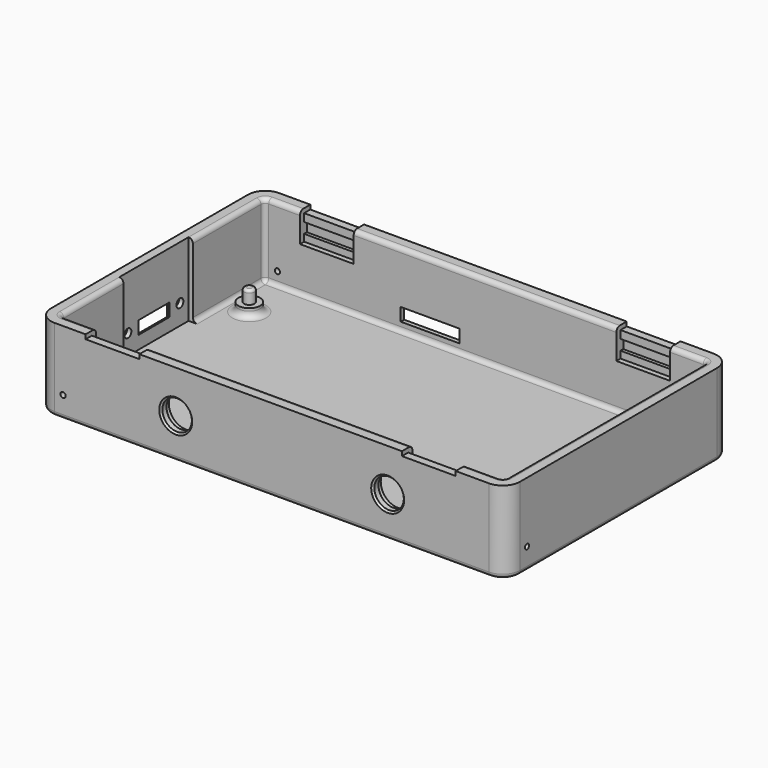
from build123d import *

# Parameters (mm, degrees)
SKETCH001_W     = 108.25
SKETCH001_H     = 64.82
PAD_DEPTH       = 19
SKETCH002_W     = 58.82
SKETCH002_H     = 102.25
POCKET_DEPTH    = 17
SKETCH003_R     = 2.5
PAD001_DEPTH    = 2
SKETCH004_R     = 1.2
PAD002_DEPTH    = 3
SKETCH005_W     = 12.4
SKETCH005_H     = 1
SKETCH005_W_2   = 13.6
SKETCH005_H_2   = 3
POCKET001_DEPTH = 3.001
SKETCH006_R     = 3.4
SKETCH006_W     = 12.4
SKETCH006_H     = 1
POCKET002_DEPTH = 3.001
SKETCH007_R     = 1
SKETCH007_W     = 9
SKETCH007_H     = 3
POCKET003_DEPTH = 3.001
SKETCH008_W     = 1.2
SKETCH008_H     = 12.4
POCKET004_DEPTH = 6.8
SKETCH009_W     = 12.4
SKETCH009_H     = 2.4
POCKET005_DEPTH = 2
SKETCH010_W     = 12.4
SKETCH010_H     = 2.4
POCKET006_DEPTH = 2
SKETCH011_R     = 4
POCKET007_DEPTH = 1.4
POCKET010_DEPTH = 1.4
POCKET011_DEPTH = 1
SKETCH028_W     = 20
SKETCH028_H     = 1
POCKET012_DEPTH = 17
FILLET001_R     = 4
FILLET002_R     = 1
FILLET003_R     = 1
CHAMFER_SIZE    = 0.6
CHAMFER001_SIZE = 0.6
CHAMFER002_SIZE = 0.4
FILLET010_R     = 1.4
FILLET013_R     = 1
FILLET014_R     = 1
FILLET016_R     = 0.6
SKETCH031_R     = 0.6
POCKET015_DEPTH = 64.821
SKETCH032_R     = 0.6
POCKET016_DEPTH = 108.251


with BuildPart() as part:
    # Sketch001 → Pad (new body)
    with BuildSketch(Plane.XY):
        with Locations((50.925, 29.21)):
            Rectangle(SKETCH001_W, SKETCH001_H)
    extrude(amount=PAD_DEPTH)

    # Sketch002 (on DatumPlane) → Pocket (cut)
    with BuildSketch(Plane(origin=(50.925, 29.21, 19), x_dir=(0, 1, 0), z_dir=(0, 0, 1))):
        Rectangle(SKETCH002_W, SKETCH002_H)
    extrude(amount=-POCKET_DEPTH, mode=Mode.SUBTRACT)

    # Sketch003 (on DatumPlane) → Pad001 (join)
    with BuildSketch(Plane.XY.offset(2)):
        with Locations((5.105, 47.625)):
            Circle(SKETCH003_R)
        with Locations((94.564, 47.625)):
            Circle(SKETCH003_R)
        with Locations((94.564, 10.795)):
            Circle(SKETCH003_R)
        with Locations((5.105, 10.795)):
            Circle(SKETCH003_R)
    extrude(amount=PAD001_DEPTH)

    # Sketch004 (on DatumPlane) → Pad002 (join)
    with BuildSketch(Plane.XY.offset(4)):
        with Locations((5.105, 47.625)):
            Circle(SKETCH004_R)
        with Locations((94.564, 47.625)):
            Circle(SKETCH004_R)
        with Locations((94.564, 10.795)):
            Circle(SKETCH004_R)
        with Locations((5.105, 10.795)):
            Circle(SKETCH004_R)
    extrude(amount=PAD002_DEPTH)

    # Sketch005 (on DatumPlane) → Pocket001 (cut, through all)
    with BuildSketch(Plane.XZ.offset(-58.62)):
        with Locations((14.2, 18.5)):
            Rectangle(SKETCH005_W, SKETCH005_H)
        with Locations((87.2, 18.5)):
            Rectangle(SKETCH005_W, SKETCH005_H)
        with Locations((38.06, 5.5)):
            Rectangle(SKETCH005_W_2, SKETCH005_H_2)
    extrude(amount=-POCKET001_DEPTH, mode=Mode.SUBTRACT)

    # Sketch006 (on DatumPlane) → Pocket002 (cut, through all)
    with BuildSketch(Plane(origin=(0, -0.2, 0), x_dir=(-1, 0, 0), z_dir=(0, 1, 0))):
        with Locations((-77.7, 9.2)):
            Circle(SKETCH006_R)
        with Locations((-28.8, 9.2)):
            Circle(SKETCH006_R)
        with Locations((-87.2, 18.5)):
            Rectangle(SKETCH006_W, SKETCH006_H)
        with Locations((-14.2, 18.5)):
            Rectangle(SKETCH006_W, SKETCH006_H)
    extrude(amount=-POCKET002_DEPTH, mode=Mode.SUBTRACT)

    # Sketch007 (on DatumPlane) → Pocket003 (cut, through all)
    with BuildSketch(Plane.YZ.offset(-0.2)):
        with Locations((20.5, 6.6)):
            Circle(SKETCH007_R)
        with Locations((35.5, 6.6)):
            Circle(SKETCH007_R)
        with Locations((28, 6.5)):
            Rectangle(SKETCH007_W, SKETCH007_H)
    extrude(amount=-POCKET003_DEPTH, mode=Mode.SUBTRACT)

    # Sketch008 (on DatumPlane) → Pocket004 (cut)
    with BuildSketch(Plane(origin=(50.925, 29.21, 19), x_dir=(0, 1, 0), z_dir=(0, 0, 1))):
        with Locations((-30.01, 36.725)):
            Rectangle(SKETCH008_W, SKETCH008_H)
        with Locations((30.01, 36.725)):
            Rectangle(SKETCH008_W, SKETCH008_H)
        with Locations((30.01, -36.275)):
            Rectangle(SKETCH008_W, SKETCH008_H)
        with Locations((-30.01, -36.275)):
            Rectangle(SKETCH008_W, SKETCH008_H)
    extrude(amount=-POCKET004_DEPTH, mode=Mode.SUBTRACT)

    # Sketch009 (on DatumPlane) → Pocket005 (cut)
    with BuildSketch(Plane.XZ.offset(-58.62)):
        with Locations((14.2, 15)):
            Rectangle(SKETCH009_W, SKETCH009_H)
        with Locations((87.2, 15)):
            Rectangle(SKETCH009_W, SKETCH009_H)
    extrude(amount=-POCKET005_DEPTH, mode=Mode.SUBTRACT)

    # Sketch010 (on DatumPlane) → Pocket006 (cut)
    with BuildSketch(Plane(origin=(0, -0.2, 0), x_dir=(-1, 0, 0), z_dir=(0, 1, 0))):
        with Locations((-87.2, 15)):
            Rectangle(SKETCH010_W, SKETCH010_H)
        with Locations((-14.2, 15)):
            Rectangle(SKETCH010_W, SKETCH010_H)
    extrude(amount=-POCKET006_DEPTH, mode=Mode.SUBTRACT)

    # Sketch011 (on DatumPlane) → Pocket007 (cut)
    with BuildSketch(Plane(origin=(0, -0.2, 0), x_dir=(-1, 0, 0), z_dir=(0, 1, 0))):
        with Locations((-77.7, 9.2)):
            Circle(SKETCH011_R)
        with Locations((-28.8, 9.2)):
            Circle(SKETCH011_R)
    extrude(amount=-POCKET007_DEPTH, mode=Mode.SUBTRACT)

    # Sketch024 (on Face1 of Pocket007) → Pocket010 (cut)
    with BuildSketch(Plane(origin=(0, 61.62, 0), x_dir=(-1, 0, 0), z_dir=(0, 1, 0))):
        with BuildLine():
            ThreePointArc((-44.86, 9), (-48.36, 5.5), (-44.86, 2))
            Line((-44.86, 2), (-31.26, 2))
            ThreePointArc((-31.26, 2), (-27.76, 5.5), (-31.26, 9))
            Line((-44.86, 9), (-31.26, 9))
        make_face()
    extrude(amount=-POCKET010_DEPTH, mode=Mode.SUBTRACT)

    # Sketch025 (on Face3 of Pocket010) → Pocket011 (cut)
    with BuildSketch(Plane(origin=(-3.2, 0, 0), x_dir=(0, -1, 0), z_dir=(-1, 0, 0))):
        with BuildLine():
            ThreePointArc((-35.5, 9.6), (-38.5, 6.6), (-35.5, 3.6))
            Line((-35.5, 3.6), (-20.5, 3.6))
            ThreePointArc((-20.5, 3.6), (-17.5, 6.6), (-20.5, 9.6))
            Line((-35.5, 9.6), (-20.5, 9.6))
        make_face()
    extrude(amount=-POCKET011_DEPTH, mode=Mode.SUBTRACT)

    # Sketch028 (on DatumPlane) → Pocket012 (cut)
    with BuildSketch(Plane(origin=(50.925, 29.21, 19), x_dir=(0, 1, 0), z_dir=(0, 0, 1))):
        with Locations((-1.21, 51.625)):
            Rectangle(SKETCH028_W, SKETCH028_H)
    extrude(amount=-POCKET012_DEPTH, mode=Mode.SUBTRACT)

    # Fillet001
    fillet001_edges = [part.edges().sort_by_distance(p)[0] for p in [
        (-3.2, -3.2, 9.5),
        (-3.2, 61.62, 9.5),
        (105.05, -3.2, 9.5),
        (105.05, 61.62, 9.5),
    ]]
    fillet(fillet001_edges, radius=FILLET001_R)

    # Fillet002
    fillet002_edges = [part.edges().sort_by_distance(p)[0] for p in [
        (-0.2, 58.62, 10.5),
        (102.05, 58.62, 10.5),
        (-0.2, -0.2, 10.5),
        (102.05, -0.2, 10.5),
    ]]
    fillet(fillet002_edges, radius=FILLET002_R)

    # Fillet003
    fillet003_edges = [part.edges().sort_by_distance(p)[0] for p in [
        (50.925, -3.2, 0),
    ]]
    fillet(fillet003_edges, radius=FILLET003_R)

    # Chamfer
    chamfer_edges = [part.edges().sort_by_distance(p)[0] for p in [
        (-3.2, 28, 9.6),
        (-2.2, 28, 8),
        (-2.2, 23.5, 6.5),
        (-2.2, 32.5, 6.5),
        (-2.2, 28, 5),
    ]]
    chamfer(chamfer_edges, length=CHAMFER_SIZE)

    # Chamfer001
    chamfer001_edges = [part.edges().sort_by_distance(p)[0] for p in [
        (38.06, 61.62, 9),
        (44.86, 60.22, 5.5),
        (38.06, 60.22, 7),
        (38.06, 60.22, 4),
        (31.26, 60.22, 5.5),
    ]]
    chamfer(chamfer001_edges, length=CHAMFER001_SIZE)

    # Chamfer002
    chamfer002_edges = [part.edges().sort_by_distance(p)[0] for p in [
        (81.1, -3.2, 9.2),
        (32.2, -3.2, 9.2),
    ]]
    chamfer(chamfer002_edges, length=CHAMFER002_SIZE)

    # Fillet010
    fillet010_edges = [part.edges().sort_by_distance(p)[0] for p in [
        (92.064, 10.795, 2),
        (2.605, 10.795, 2),
        (2.605, 47.625, 2),
        (92.064, 47.625, 2),
    ]]
    fillet(fillet010_edges, radius=FILLET010_R)

    # Fillet013
    fillet013_edges = [part.edges().sort_by_distance(p)[0] for p in [
        (50.925, -0.2, 2),
    ]]
    fillet(fillet013_edges, radius=FILLET013_R)

    # Fillet014
    fillet014_edges = [part.edges().sort_by_distance(p)[0] for p in [
        (102.05, 29.21, 19),
        (50.7, 58.62, 19),
        (-0.2, 9.4, 19),
        (50.7, -0.2, 19),
        (-0.2, 47.81, 19),
    ]]
    fillet(fillet014_edges, radius=FILLET014_R)

    # Fillet016
    fillet016_edges = [part.edges().sort_by_distance(p)[0] for p in [
        (93.364, 47.625, 7),
        (93.364, 10.795, 7),
        (3.905, 10.795, 7),
        (3.905, 47.625, 7),
    ]]
    fillet(fillet016_edges, radius=FILLET016_R)

    # Sketch031 (on Face97 of Fillet016) → Pocket015 (cut, through all)
    with BuildSketch(Plane.XZ.offset(3.2)):
        with Locations((2.8, 5)):
            Circle(SKETCH031_R)
    extrude(amount=-POCKET015_DEPTH, mode=Mode.SUBTRACT)

    # Sketch032 (on Face97 of Pocket015) → Pocket016 (cut, through all)
    with BuildSketch(Plane(origin=(-3.2, 0, 0), x_dir=(0, -1, 0), z_dir=(-1, 0, 0))):
        with Locations((-2.8, 5)):
            Circle(SKETCH032_R)
    extrude(amount=-POCKET016_DEPTH, mode=Mode.SUBTRACT)


solid = part.part
